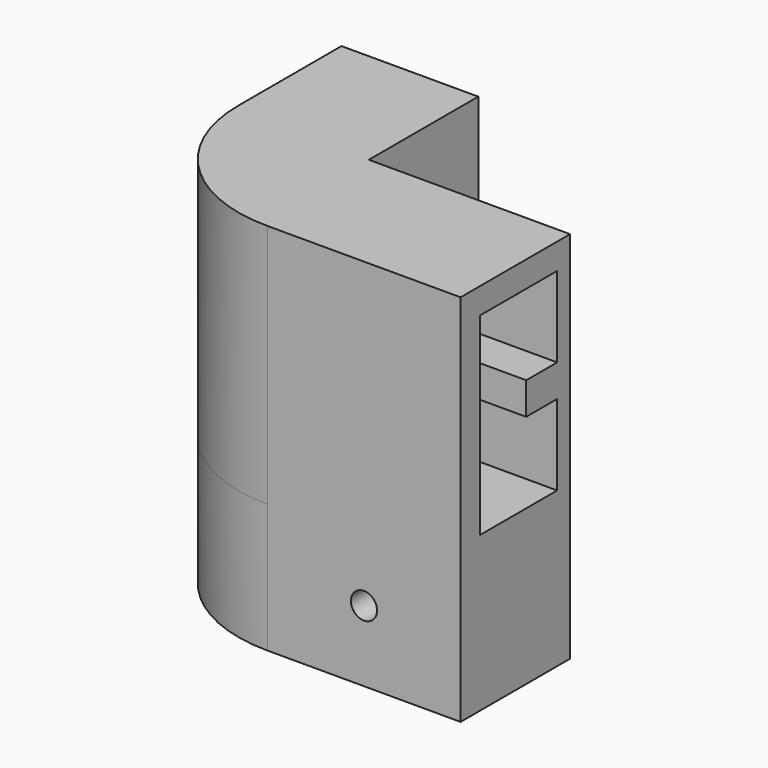
from build123d import *

# Parameters (mm, degrees)
F0_W      = 28.5392315894
F0_H      = 48.2956362042
F1_DEPTH  = 25.4
F1_FACE_W = 28.5392315894
F1_FACE_H = 48.2956362042
F2_ANGLE  = 90
F3_DEPTH  = 38.1
F4_W      = 26.9696157947
F4_H      = 26.9696157947
F5_DEPTH  = 50.14334
F6_W      = 26.9748
F6_H      = 6.35
F7_DEPTH  = 25.4
F9_DEPTH  = 38.1
F11_DEPTH = 12.7


with BuildPart() as f1:
    # F0 (on Front) → F1 (new body)
    with BuildSketch(Plane.XZ):
        with Locations((-3.175, -0.3527777778)):
            Rectangle(F0_W, F0_H)
        Polygon((-12.7, -19.4027777778), (-12.7, 18.6972222222), (6.35, 18.6972222222), (6.35, 2.8222222222), (-1.27, 2.8222222222), (-1.27, -3.5277777778), (6.35, -3.5277777778), (6.35, -19.4027777778), align=None, mode=Mode.SUBTRACT)
    extrude(amount=F1_DEPTH)

    # F1_face (on face) → F2 (revolve)
    with BuildSketch(Plane(origin=(-2.7804632911, -25.4, -0.3527777778), x_dir=(1, 0, 0), z_dir=(0, -1, 0))):
        with Locations((-0.3945367089, 0)):
            Rectangle(F1_FACE_W, F1_FACE_H)
        Polygon((9.1304632911, -19.05), (-9.9195367089, -19.05), (-9.9195367089, 19.05), (9.1304632911, 19.05), (9.1304632911, 3.175), (1.5104632911, 3.175), (1.5104632911, -3.175), (9.1304632911, -3.175), align=None, mode=Mode.SUBTRACT)
    revolve(axis=Axis((11.0946157947, -25.4, -0.3527777778), (0, 0, 1)), revolution_arc=F2_ANGLE)

    # F3 (add): a face of the model
    f3_faces = [f1.faces().sort_by_distance(p)[0] for p in [
        (11.0946157947, -22.3630131274, -0.3527777778),
    ]]
    extrude(f3_faces, amount=F3_DEPTH)

    # F4 (on face) → F5 (cut, symmetric)
    with BuildSketch(Plane(origin=(0, 0, -24.5005958799), x_dir=(1, 0, 0), z_dir=(0, 0, -1))):
        with Locations((35.7098078974, 13.4848078974)):
            Rectangle(F4_W, F4_H)
    extrude(amount=F5_DEPTH, both=True, mode=Mode.SUBTRACT)

    # F6 (on face) → F7 (join)
    with BuildSketch(Plane(origin=(0, 0, -24.5005958799), x_dir=(1, 0, 0), z_dir=(0, 0, -1))):
        Polygon((22.2198247534, 33.3196136858), (22.225, 26.9696157947), (49.1946157947, 26.9915960246), (49.1946157947, 33.3415981335), align=None)
        with Locations((35.7072157947, 50.7642315894)):
            Rectangle(F6_W, F6_H)
        with BuildLine():
            Line((22.225, 0), (22.225, 26.9696157947))
            Line((22.225, 26.9696157947), (22.2198247534, 33.3196136858))
            Line((22.2198247534, 33.3196136858), (49.1946157947, 33.3415981335))
            Line((49.1946157947, 33.3415981335), (49.1946157947, 47.5892315894))
            Line((49.1946157947, 47.5892315894), (22.2198157947, 47.5892315894))
            Line((22.2198157947, 47.5892315894), (22.2198157947, 53.9392315894))
            Line((22.2198157947, 53.9392315894), (11.0946157947, 53.9392315894))
            ThreePointArc((11.0946157947, 53.9392315894), (-9.085668392, 45.5802841867), (-17.4446157947, 25.4))
            Line((-17.4446157947, 25.4), (-17.4446157947, 0))
            Line((-17.4446157947, 0), (22.225, 0))
        make_face()
    extrude(amount=F7_DEPTH)

    # F8 (on face) → F9 (cut)
    with BuildSketch(Plane.XZ.offset(53.9392315894)):
        with BuildLine():
            ThreePointArc((27.5649282947, -35.9276048839), (30.1446157947, -38.5072923839), (32.7243032947, -35.9276048839))
            Line((32.7243032947, -35.9276048839), (30.1446157947, -35.9276048839))
            Line((30.1446157947, -35.9276048839), (27.5649282947, -35.9276048839))
        make_face()
        with BuildLine():
            Line((30.1446157947, -35.9276048839), (32.7243032947, -35.9276048839))
            ThreePointArc((32.7243032947, -35.9276048839), (30.1446157947, -33.3479173839), (27.5649282947, -35.9276048839))
            Line((27.5649282947, -35.9276048839), (30.1446157947, -35.9276048839))
        make_face()
    extrude(amount=-F9_DEPTH, mode=Mode.SUBTRACT)

    # F11 (cut): a face of the model
    f11_faces = [f1.faces().sort_by_distance(p)[0] for p in [
        (22.225, -13.4848078974, -13.0527777778),
    ]]
    extrude(f11_faces, amount=-F11_DEPTH, mode=Mode.SUBTRACT)


solid = f1.part
